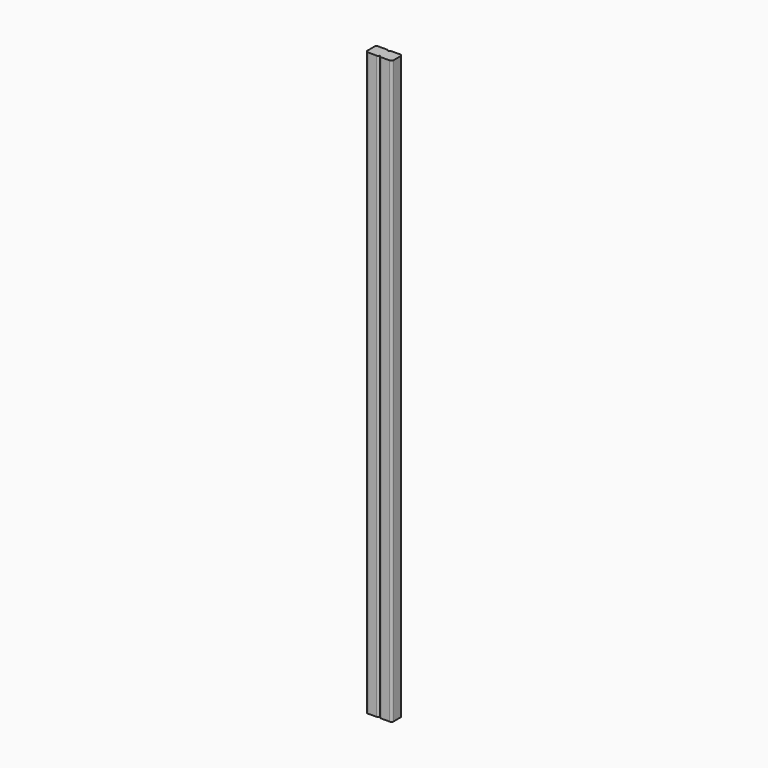
from build123d import *

# Parameters (mm, degrees)
F1_DEPTH = 1701.8


with BuildPart() as f1:
    # F0 (on Top) → F1 (new body)
    with BuildSketch(Plane.XY):
        with BuildLine():
            ThreePointArc((0, 12.596164), (-1.859872, 17.086292), (-6.35, 18.946164))
            Line((-6.35, 18.946164), (-31.75, 18.946164))
            ThreePointArc((-31.75, 18.946164), (-36.240128, 17.086292), (-38.1, 12.596164))
            Line((-38.1, 12.596164), (-38.1, -12.803836))
            ThreePointArc((-38.1, -12.803836), (-36.240128, -17.293964), (-31.75, -19.153836))
            Line((-31.75, -19.153836), (-6.35, -19.153836))
            ThreePointArc((-6.35, -19.153836), (-1.859872, -17.293964), (0, -12.803836))
            Line((0, -12.803836), (0, -12.7))
            Line((0, -12.7), (0, 12.596164))
        make_face()
        with BuildLine():
            Line((0, 12.7), (0, 12.596164))
            Line((0, 12.596164), (0, -12.7))
            ThreePointArc((0, -12.7), (1.859872, -17.190128), (6.35, -19.05))
            Line((6.35, -19.05), (31.75, -19.05))
            ThreePointArc((31.75, -19.05), (36.240128, -17.190128), (38.1, -12.7))
            Line((38.1, -12.7), (38.1, 12.7))
            ThreePointArc((38.1, 12.7), (36.240128, 17.190128), (31.75, 19.05))
            Line((31.75, 19.05), (6.35, 19.05))
            ThreePointArc((6.35, 19.05), (1.859872, 17.190128), (0, 12.7))
        make_face()
    extrude(amount=F1_DEPTH)


solid = f1.part
